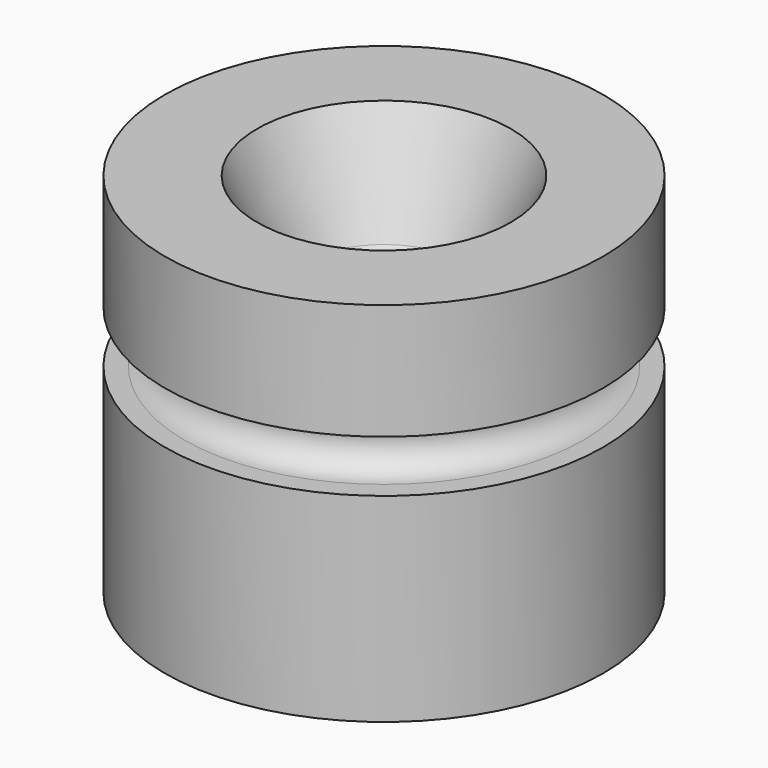
from build123d import *

# Parameters (mm, degrees)
F0_R     = 16.845
F0_R_2   = 9.75
F1_DEPTH = 28.21
F0_R_3   = 4.825
F2_DEPTH = 28.21


with BuildPart() as f1:
    # F0 (on Top) → F1 (new body)
    with BuildSketch(Plane.XY):
        Circle(F0_R)
        Circle(F0_R_2, mode=Mode.SUBTRACT)
    extrude(amount=F1_DEPTH)

    # F0 (on Top) → F2 (join)
    with BuildSketch(Plane.XY):
        Circle(F0_R_2)
        Circle(F0_R_3, mode=Mode.SUBTRACT)
    extrude(amount=F2_DEPTH)

    # F3 (on Front) → F4 (revolve, cut)
    with BuildSketch(Plane.XZ):
        with BuildLine():
            Line((15.345, 15.3), (16.845, 15.3))
            Line((16.845, 15.3), (16.845, 19.3))
            Line((16.845, 19.3), (15.345, 19.3))
            ThreePointArc((15.345, 19.3), (13.345, 17.3), (15.345, 15.3))
        make_face()
    revolve(axis=Axis((0, 0, 14.105), (0, 0, 1)), mode=Mode.SUBTRACT)

    # F5 (on Front) → F6 (revolve, cut)
    with BuildSketch(Plane.XZ):
        with BuildLine():
            ThreePointArc((5.680042, 19.3), (5.794747, 19.869563), (6.068315, 20.382124))
            Line((6.068315, 20.382124), (9.75, 28.21))
            Line((9.75, 28.21), (0, 28.21))
            Line((0, 28.21), (0, 19.3))
            Line((0, 19.3), (5.680042, 19.3))
        make_face()
        with BuildLine():
            ThreePointArc((5.721742, 18.774543), (5.683505, 19.035892), (5.680042, 19.3))
            Line((5.680042, 19.3), (0, 19.3))
            Line((0, 19.3), (0, 0))
            Line((0, 0), (9.75, 0))
            Line((9.75, 0), (5.721742, 18.774543))
        make_face()
    revolve(axis=Axis((0, 0, 14.105), (0, 0, 1)), mode=Mode.SUBTRACT)


solid = f1.part
